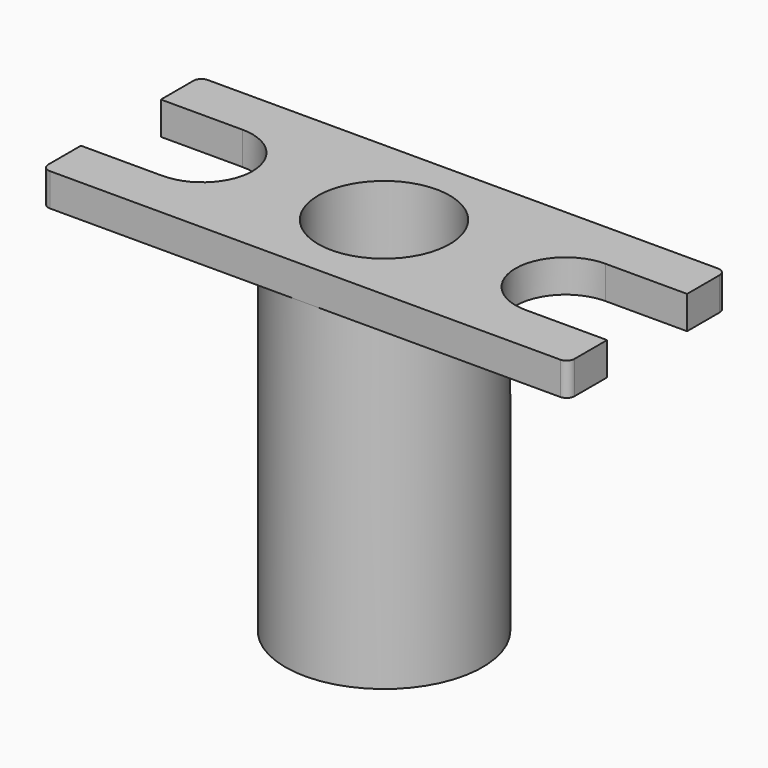
from build123d import *

# Parameters (mm, degrees)
F2_R     = 12.7
F3_DEPTH = 6.35


with BuildPart() as f1:
    # F0 (on Front) → F1 (revolve)
    with BuildSketch(Plane.XZ):
        Polygon((-19.05, 0), (-4.7625, 0), (-4.7625, 6.35), (-12.7, 6.35), (-12.7, 69.85), (-19.05, 69.85), align=None)
    revolve(axis=Axis((0, 0, 31.452348), (0, 0, 1)))

    # F2 (on face) → F3 (join)
    with BuildSketch(Plane.XY.offset(69.85)):
        with BuildLine():
            Line((49.276, 19.05), (-49.276, 19.05))
            ThreePointArc((-49.276, 19.05), (-50.353631, 18.603631), (-50.8, 17.526))
            Line((-50.8, 17.526), (-50.8, 9.652))
            Line((-50.8, 9.652), (-35.052, 9.652))
            ThreePointArc((-35.052, 9.652), (-25.4, 0), (-35.052, -9.652))
            Line((-35.052, -9.652), (-50.8, -9.652))
            Line((-50.8, -9.652), (-50.8, -17.526))
            ThreePointArc((-50.8, -17.526), (-50.353631, -18.603631), (-49.276, -19.05))
            Line((-49.276, -19.05), (49.276, -19.05))
            ThreePointArc((49.276, -19.05), (50.353631, -18.603631), (50.8, -17.526))
            Line((50.8, -17.526), (50.8, -9.652))
            Line((50.8, -9.652), (35.052, -9.652))
            ThreePointArc((35.052, -9.652), (25.4, 0), (35.052, 9.652))
            Line((35.052, 9.652), (50.8, 9.652))
            Line((50.8, 9.652), (50.8, 17.526))
            ThreePointArc((50.8, 17.526), (50.353631, 18.603631), (49.276, 19.05))
        make_face()
        Circle(F2_R, mode=Mode.SUBTRACT)
    extrude(amount=-F3_DEPTH)


solid = f1.part
